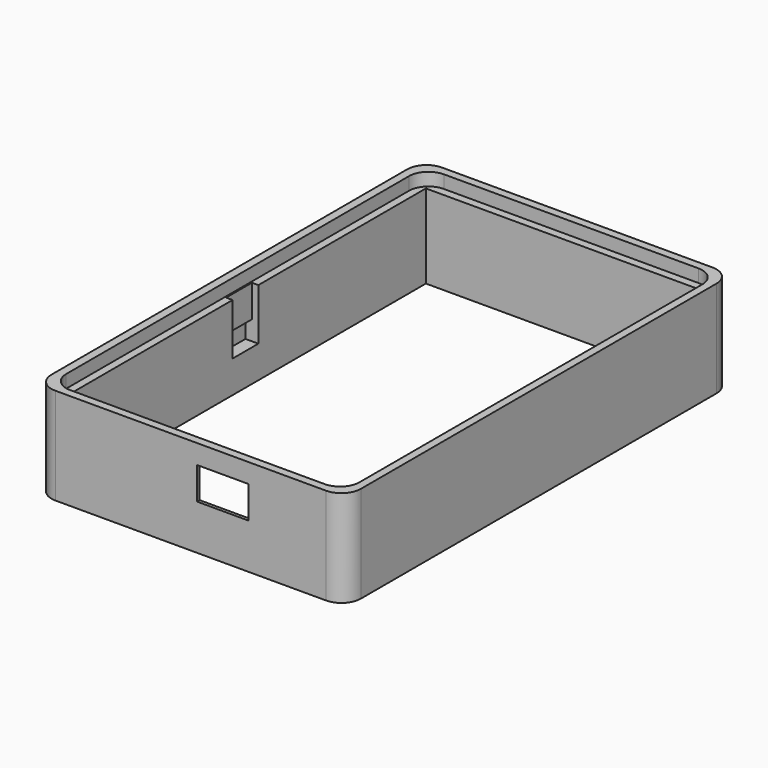
from build123d import *

# Parameters (mm, degrees)
SKETCH004_W     = 48
SKETCH004_H     = 75
SKETCH004_W_2   = 43
SKETCH004_H_2   = 70
PAD002_DEPTH    = 15
SKETCH005_W     = 45.5
SKETCH005_H     = 72.5
POCKET_DEPTH    = 2
FILLET_R        = 3
FILLET001_R     = 3
FILLET002_R     = 3
FILLET003_R     = 3
FILLET004_R     = 3
FILLET005_R     = 3
SKETCH006_W     = 5
SKETCH006_H     = 5
POCKET001_DEPTH = 1
SKETCH007_W     = 5
SKETCH007_H     = 3
POCKET002_DEPTH = 2
SKETCH008_W     = 5
SKETCH008_H     = 5
POCKET003_DEPTH = 1
SKETCH009_W     = 5
SKETCH009_H     = 3
POCKET004_DEPTH = 2
SKETCH011_W     = 23
SKETCH011_H     = 12
POCKET006_DEPTH = 2
SKETCH013_W     = 8
SKETCH013_H     = 5
POCKET008_DEPTH = 5


with BuildPart() as part:
    # Sketch004 → Pad002 (new body)
    with BuildSketch(Plane.XY.offset(1.5)):
        with Locations((-5, 0)):
            Rectangle(SKETCH004_W, SKETCH004_H)
        with Locations((-5, 0)):
            Rectangle(SKETCH004_W_2, SKETCH004_H_2, mode=Mode.SUBTRACT)
    extrude(amount=PAD002_DEPTH)

    # Sketch005 → Pocket (cut)
    with BuildSketch(Plane.XY.offset(16.5)):
        with Locations((-4.9611, 0)):
            Rectangle(SKETCH005_W, SKETCH005_H)
    extrude(amount=-POCKET_DEPTH, mode=Mode.SUBTRACT)

    # Fillet
    fillet_edges = [part.edges().sort_by_distance(p)[0] for p in [
        (-27.7111, 36.25, 15.5),
    ]]
    fillet(fillet_edges, radius=FILLET_R)

    # Fillet001
    fillet001_edges = [part.edges().sort_by_distance(p)[0] for p in [
        (-27.7111, -36.25, 15.5),
    ]]
    fillet(fillet001_edges, radius=FILLET001_R)

    # Fillet002
    fillet002_edges = [part.edges().sort_by_distance(p)[0] for p in [
        (17.7889, -36.25, 15.5),
    ]]
    fillet(fillet002_edges, radius=FILLET002_R)

    # Fillet003
    fillet003_edges = [part.edges().sort_by_distance(p)[0] for p in [
        (17.7889, 36.25, 15.5),
    ]]
    fillet(fillet003_edges, radius=FILLET003_R)

    # Fillet004
    fillet004_edges = [part.edges().sort_by_distance(p)[0] for p in [
        (-29, 37.5, 9),
        (19, 37.5, 9),
    ]]
    fillet(fillet004_edges, radius=FILLET004_R)

    # Fillet005
    fillet005_edges = [part.edges().sort_by_distance(p)[0] for p in [
        (-29, -37.5, 9),
        (19, -37.5, 9),
    ]]
    fillet(fillet005_edges, radius=FILLET005_R)

    # Sketch006 → Pocket001 (cut)
    with BuildSketch(Plane(origin=(-26.5, 0, 1.5), x_dir=(0, 1, 0), z_dir=(1, 0, 0))):
        with Locations((0, 10.5)):
            Rectangle(SKETCH006_W, SKETCH006_H)
    extrude(amount=-POCKET001_DEPTH, mode=Mode.SUBTRACT)

    # Sketch007 → Pocket002 (cut)
    with BuildSketch(Plane(origin=(-26.5, 0, 1.5), x_dir=(0, 1, 0), z_dir=(1, 0, 0))):
        with Locations((0, 6.5)):
            Rectangle(SKETCH007_W, SKETCH007_H)
    extrude(amount=-POCKET002_DEPTH, mode=Mode.SUBTRACT)

    # Sketch008 → Pocket003 (cut)
    with BuildSketch(Plane(origin=(16.5, 0, 1.5), x_dir=(0, -1, 0), z_dir=(-1, 0, 0))):
        with Locations((0, 10.5)):
            Rectangle(SKETCH008_W, SKETCH008_H)
    extrude(amount=-POCKET003_DEPTH, mode=Mode.SUBTRACT)

    # Sketch009 → Pocket004 (cut)
    with BuildSketch(Plane(origin=(16.5, 0, 1.5), x_dir=(0, -1, 0), z_dir=(-1, 0, 0))):
        with Locations((0, 6.5)):
            Rectangle(SKETCH009_W, SKETCH009_H)
    extrude(amount=-POCKET004_DEPTH, mode=Mode.SUBTRACT)

    # Sketch011 → Pocket006 (cut)
    with BuildSketch(Plane(origin=(0, -35, 1.5), x_dir=(-1, 0, 0), z_dir=(0, 1, 0))):
        with Locations((0, 6)):
            Rectangle(SKETCH011_W, SKETCH011_H)
    extrude(amount=-POCKET006_DEPTH, mode=Mode.SUBTRACT)

    # Sketch013 → Pocket008 (cut)
    with BuildSketch(Plane(origin=(0, -37.5, 1.5), x_dir=(1, 0, 0), z_dir=(0, -1, 0))):
        with Locations((0, 9.5)):
            Rectangle(SKETCH013_W, SKETCH013_H)
    extrude(amount=-POCKET008_DEPTH, mode=Mode.SUBTRACT)


solid = part.part
